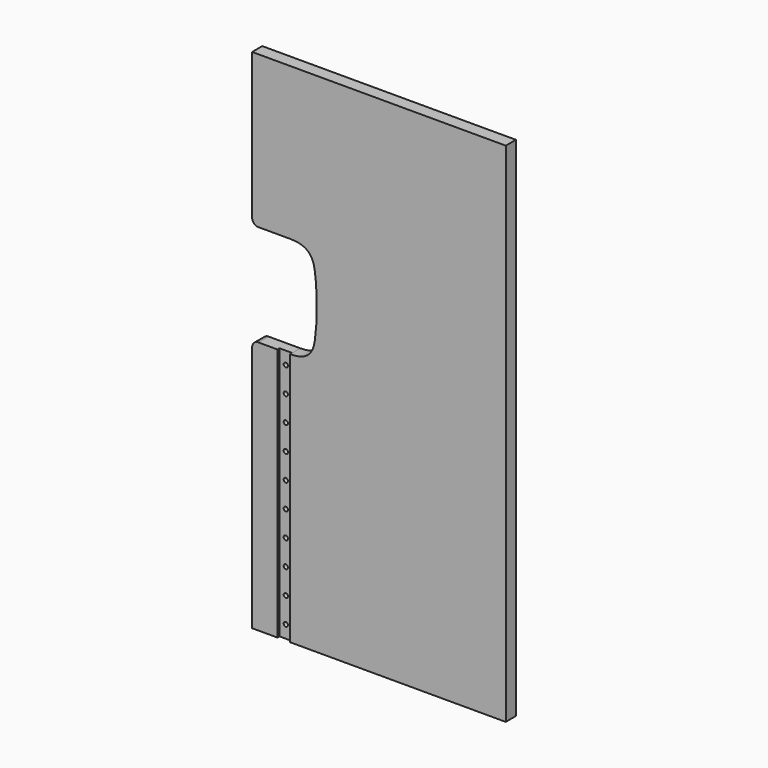
from build123d import *

# Parameters (mm, degrees)
F0_W     = 1000
F0_H     = 2000
F1_DEPTH = 50
F2_W     = 50
F2_H     = 1000
F3_DEPTH = 10
F5_DEPTH = 50.001
F6_R     = 25
F8_D     = 17


with BuildPart() as f1:
    # F0 (on Front) → F1 (new body)
    with BuildSketch(Plane.XZ):
        Rectangle(F0_W, F0_H)
    extrude(amount=F1_DEPTH)

    # F2 (on face) → F3 (cut)
    with BuildSketch(Plane.XZ.offset(50)):
        with Locations((-375, -500)):
            Rectangle(F2_W, F2_H)
    extrude(amount=-F3_DEPTH, mode=Mode.SUBTRACT)

    # F4 (on face) → F5 (cut, through all)
    with BuildSketch(Plane.XZ.offset(50)):
        with BuildLine():
            Line((-500, 400), (-500, 0))
            Line((-500, 0), (-400, 0))
            Line((-400, 0), (-350, 0))
            add(Edge.make_bspline(
                [(-350, 400), (-265.8781409264, 399.6310830116), (-243.3533661906, 298.146550271), (-243.3533661906, 102.0078794031), (-265.8781409264, 0), (-350, 0)],
                knots=[0, 0, 0, 0, 0.3135575596, 0.6864424404, 1, 1, 1, 1], degree=3))
            Line((-350, 400), (-500, 400))
        make_face()
    extrude(amount=-F5_DEPTH, mode=Mode.SUBTRACT)

    # F6
    f6_edges = [f1.edges().sort_by_distance(p)[0] for p in [
        (-500, -25, 400),
        (-500, -25, 0),
    ]]
    fillet(f6_edges, radius=F6_R)

    # F8 (through all)
    with Locations(Plane.XZ.offset(40)):
        with Locations((-375, -50), (-375, -150), (-375, -250), (-375, -350), (-375, -450), (-375, -550), (-375, -650), (-375, -750), (-375, -850), (-375, -950)):
            Hole(F8_D / 2)


solid = f1.part
